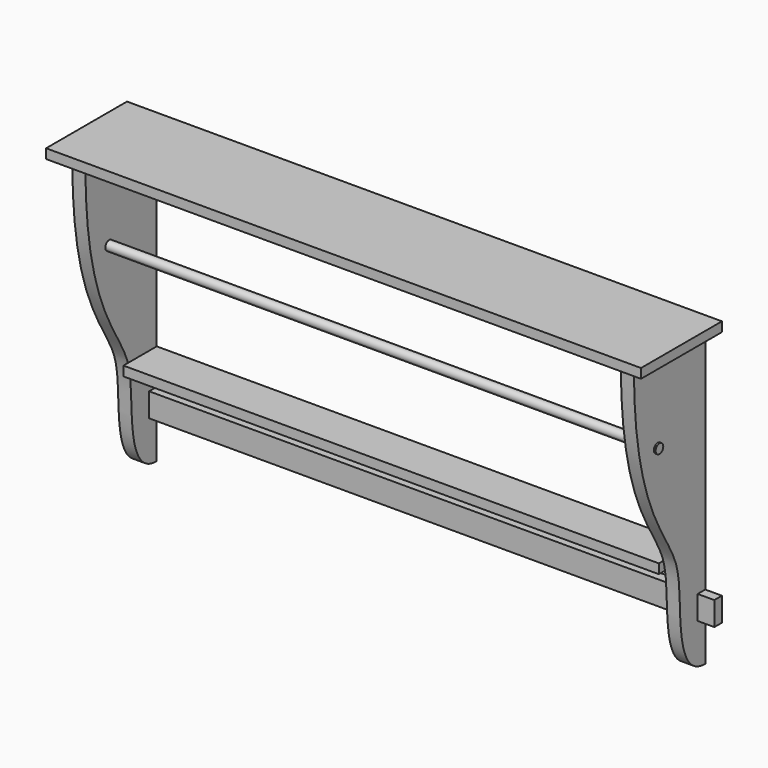
from build123d import *

# Parameters (mm, degrees)
F2_DEPTH      = 22
F4_W          = 1000
F4_H          = 170
F5_DEPTH      = 16
F6_W          = 16
F6_H          = 40
F7_DEPTH      = 500
F8_W          = 70
F8_H          = 16
F9_DEPTH      = 450
F9_DEPTH_BACK = 450
F10_R         = 8
F11_DEPTH     = 475


with BuildPart() as f2:
    # F1 (on offset) → F2 (new body)
    with BuildSketch(Plane.YZ.offset(450)):
        with BuildLine():
            Line((0, 250), (-150, 250))
            add(Edge.make_bspline(
                [(0, -250), (-42.6634041414, -250), (-56.8733196458, -156.3379538907), (-48.7424540116, -47.5698715554), (-150, 36.130781062), (-150, 250)],
                knots=[0, 0, 0, 0, 0.2643376673, 0.5186636217, 1, 1, 1, 1], degree=3))
            Line((0, -250), (0, 250))
        make_face()
    extrude(amount=F2_DEPTH)


with BuildPart() as f3_1:
    # F3: instance of F2
    add(f2.part.mirror(Plane.YZ))


with BuildPart() as f5:
    # F4 (on face) → F5 (new body)
    with BuildSketch(Plane.XY.offset(250)):
        with Locations((0, -85)):
            Rectangle(F4_W, F4_H)
    extrude(amount=F5_DEPTH)


with BuildPart() as f7:
    # F6 (on Right) → F7 (new body, symmetric)
    with BuildSketch(Plane.YZ):
        with Locations((-8, -160)):
            Rectangle(F6_W, F6_H)
    extrude(amount=F7_DEPTH, both=True)


with BuildPart() as f9:
    # F8 (on Right) → F9 (new body, two sides)
    with BuildSketch(Plane.YZ) as f9_sk:
        with Locations((-35, -88)):
            Rectangle(F8_W, F8_H)
    extrude(amount=F9_DEPTH)
    extrude(f9_sk.sketch, amount=-F9_DEPTH_BACK)


with BuildPart() as f11:
    # F10 (on Right) → F11 (new body, symmetric)
    with BuildSketch(Plane.YZ):
        with Locations((-100, 110)):
            Circle(F10_R)
    extrude(amount=F11_DEPTH, both=True)


with BuildPart() as f3_1_1:
    add(f3_1.part)

    # F12: cut F7
    add(f7.part, mode=Mode.SUBTRACT)

    # F13: cut F11
    add(f11.part, mode=Mode.SUBTRACT)


with BuildPart() as f2_1:
    add(f2.part)

    # F12: cut F7
    add(f7.part, mode=Mode.SUBTRACT)

    # F13: cut F11
    add(f11.part, mode=Mode.SUBTRACT)


solid = Compound([f5.part, f7.part, f9.part, f11.part, f3_1_1.part, f2_1.part])
